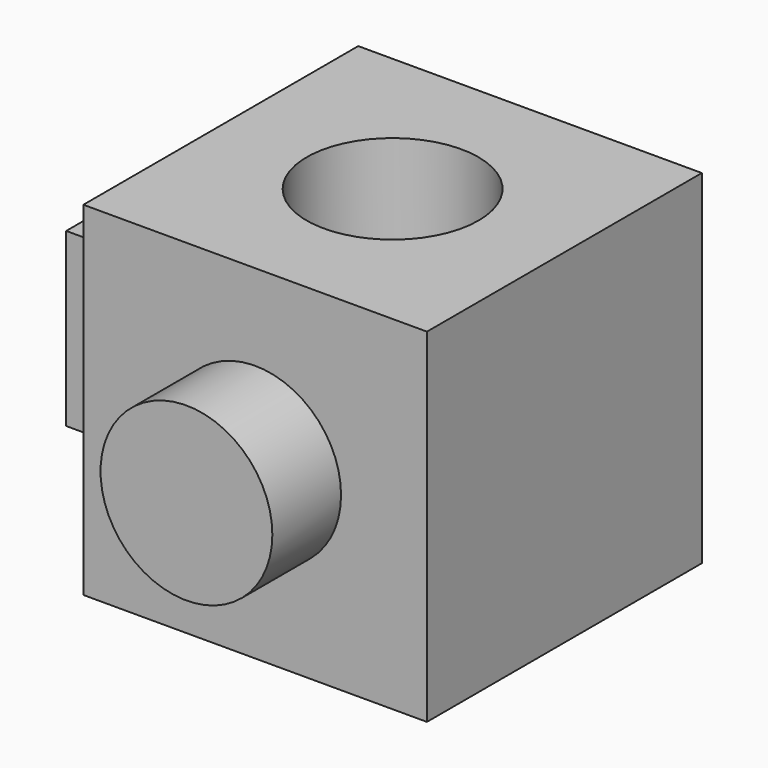
from build123d import *

# Parameters (mm, degrees)
F0_W     = 50.8
F0_H     = 50.8
F1_DEPTH = 50.8
F2_R     = 12.7
F3_DEPTH = 12.7
F4_R     = 12.7
F5_DEPTH = 50.8
F6_W     = 25.4
F6_H     = 25.4
F7_DEPTH = 12.7


with BuildPart() as f1:
    # F0 (on Front) → F1 (new body)
    with BuildSketch(Plane.XZ):
        with Locations((25.4, 25.4)):
            Rectangle(F0_W, F0_H)
    extrude(amount=F1_DEPTH)

    # F2 (on face) → F3 (join)
    with BuildSketch(Plane.XZ.offset(50.8)):
        with Locations((25.4, 25.4)):
            Circle(F2_R)
    extrude(amount=F3_DEPTH)

    # F4 (on face) → F5 (cut)
    with BuildSketch(Plane.XY.offset(50.8)):
        with Locations((25.4, -25.4)):
            Circle(F4_R)
    extrude(amount=-F5_DEPTH, mode=Mode.SUBTRACT)

    # F6 (on face) → F7 (join)
    with BuildSketch(Plane(origin=(0, 0, 0), x_dir=(0, -1, 0), z_dir=(-1, 0, 0))):
        with Locations((25.4, 25.4)):
            Rectangle(F6_W, F6_H)
    extrude(amount=F7_DEPTH)


solid = f1.part
